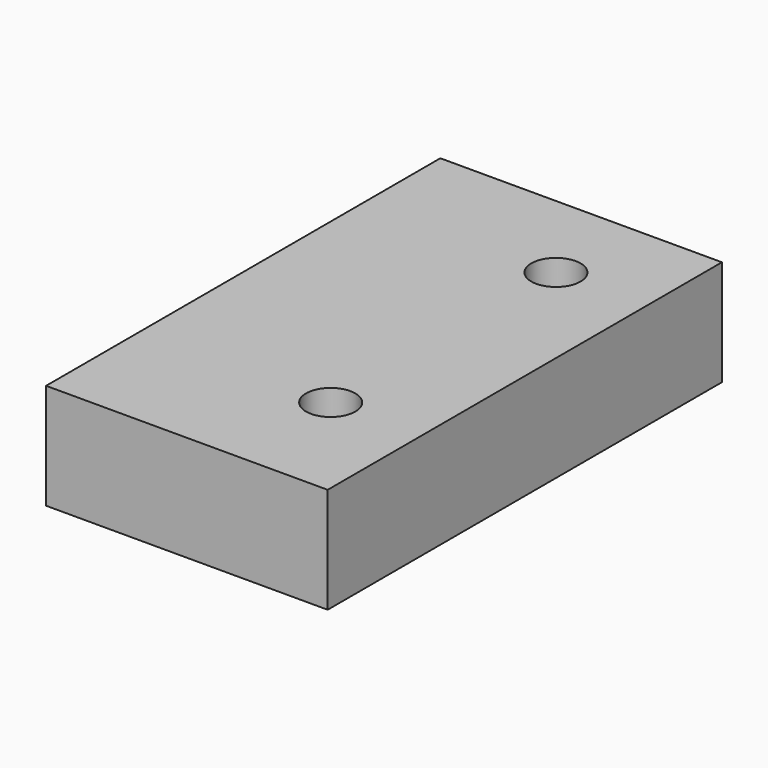
from build123d import *

# Parameters (mm, degrees)
F0_W     = 40
F0_H     = 70
F0_R     = 3.5
F1_DEPTH = 7.5


with BuildPart() as f1:
    # F0 (on Top) → F1 (new body, symmetric)
    with BuildSketch(Plane.XY):
        with Locations((-16.007383, 0.540901)):
            Rectangle(F0_W, F0_H)
        with Locations((-8.853193, -17.868106)):
            Circle(F0_R, mode=Mode.SUBTRACT)
        with Locations((-8.853193, 22.131894)):
            Circle(F0_R, mode=Mode.SUBTRACT)
    extrude(amount=F1_DEPTH, both=True)


solid = f1.part
